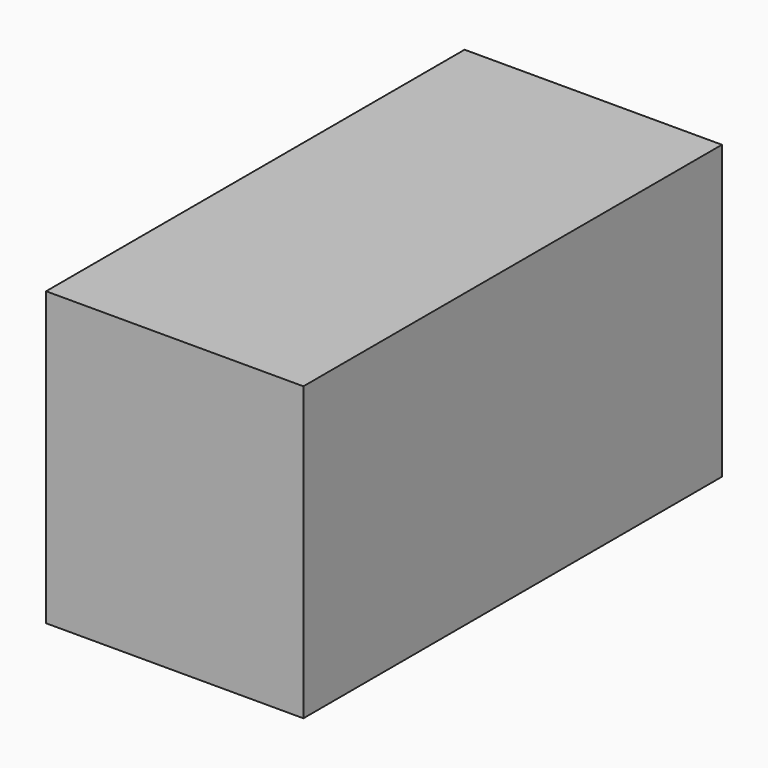
from build123d import *

# Parameters (mm, degrees)
SKETCH_W      = 340
SKETCH_H      = 691.2
PAD_DEPTH     = 386.2
SKETCH001_R   = 17.4
SKETCH001_R_2 = 61.5
SKETCH001_R_3 = 127
SKETCH001_W   = 60
SKETCH001_H   = 131
PAD001_DEPTH  = 10


with BuildPart() as part:
    # Sketch → Pad (new body)
    with BuildSketch(Plane.XY):
        Rectangle(SKETCH_W, SKETCH_H)
    extrude(amount=PAD_DEPTH)

    # Sketch001 (on Face2 of Pad) → Pad001 (join)
    with BuildSketch(Plane.YZ.offset(170)):
        with Locations((-223.1, 294.3)):
            Circle(SKETCH001_R)
        with Locations((-223.1, 122.5)):
            Circle(SKETCH001_R_2)
        with Locations((72.5, 193.1)):
            Circle(SKETCH001_R_3)
        with Locations((295.6, 85.5)):
            Rectangle(SKETCH001_W, SKETCH001_H)
    extrude(amount=-PAD001_DEPTH)


solid = part.part
